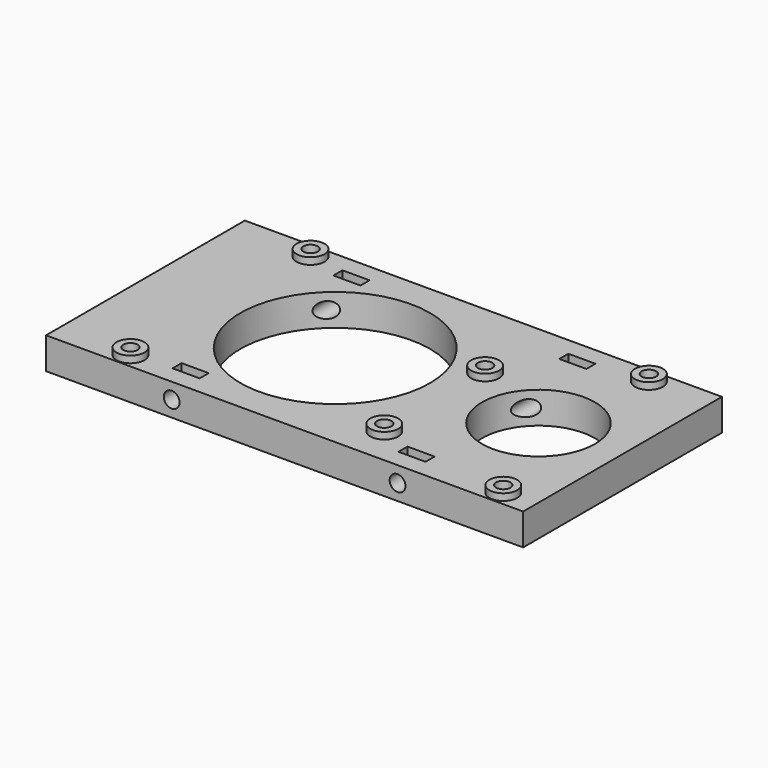
from build123d import *

# Parameters (mm, degrees)
F0_W     = 105.6
F0_H     = 55
F0_R     = 1.6
F0_R_2   = 21
F0_R_3   = 12.5
F1_DEPTH = 7
F2_R     = 3.1
F2_R_2   = 1.6
F3_DEPTH = 1.5
F4_W     = 6
F4_H     = 2.5
F5_DEPTH = 7.001
F7_DEPTH = 4
F8_R     = 1.75
F9_DEPTH = 55.001


with BuildPart() as f1:
    # F0 (on Top) → F1 (new body)
    with BuildSketch(Plane.XY):
        with Locations((50.8, 26.65)):
            Rectangle(F0_W, F0_H)
        with Locations((14, 2.5)):
            Circle(F0_R, mode=Mode.SUBTRACT)
        with Locations((66.1, 7.6)):
            Circle(F0_R, mode=Mode.SUBTRACT)
        with Locations((96.52, 2.5)):
            Circle(F0_R, mode=Mode.SUBTRACT)
        with Locations((40, 26.65)):
            Circle(F0_R_2, mode=Mode.SUBTRACT)
        with Locations((15.3, 50.7)):
            Circle(F0_R, mode=Mode.SUBTRACT)
        with Locations((66.1, 35.5)):
            Circle(F0_R, mode=Mode.SUBTRACT)
        with Locations((85, 26.65)):
            Circle(F0_R_3, mode=Mode.SUBTRACT)
        with Locations((90.2, 50.7)):
            Circle(F0_R, mode=Mode.SUBTRACT)
    extrude(amount=F1_DEPTH)

    # F2 (on face) → F3 (join)
    with BuildSketch(Plane.XY.offset(7)):
        with Locations((15.3, 50.7)):
            Circle(F2_R)
        with Locations((15.3, 50.7)):
            Circle(F2_R_2, mode=Mode.SUBTRACT)
        with Locations((90.2, 50.7)):
            Circle(F2_R)
        with Locations((90.2, 50.7)):
            Circle(F2_R_2, mode=Mode.SUBTRACT)
        with Locations((66.1, 35.5)):
            Circle(F2_R)
        with Locations((66.1, 35.5)):
            Circle(F2_R_2, mode=Mode.SUBTRACT)
        with Locations((66.1, 7.6)):
            Circle(F2_R)
        with Locations((66.1, 7.6)):
            Circle(F2_R_2, mode=Mode.SUBTRACT)
        with Locations((96.52, 2.5)):
            Circle(F2_R)
        with Locations((96.52, 2.5)):
            Circle(F2_R_2, mode=Mode.SUBTRACT)
        with Locations((14, 2.5)):
            Circle(F2_R)
        with Locations((14, 2.5)):
            Circle(F2_R_2, mode=Mode.SUBTRACT)
    extrude(amount=F3_DEPTH)

    # F4 (on face) → F5 (cut, through all)
    with BuildSketch(Plane.XY.offset(7)):
        with Locations((75.8, 48.9)):
            Rectangle(F4_W, F4_H)
        with Locations((75.8, 4.4)):
            Rectangle(F4_W, F4_H)
        with Locations((25.8, 48.9)):
            Rectangle(F4_W, F4_H)
        with Locations((25.8, 4.4)):
            Rectangle(F4_W, F4_H)
    extrude(amount=-F5_DEPTH, mode=Mode.SUBTRACT)

    # F6 (on face) → F7 (cut)
    with BuildSketch(Plane(origin=(0, 0, 0), x_dir=(1, 0, 0), z_dir=(0, 0, -1))):
        Polygon((12.267949, -5.5), (15.732051, -5.5), (17.464102, -2.5), (15.732051, 0.5), (12.267949, 0.5), (10.535898, -2.5), align=None)
        Polygon((98.252051, 0.5), (94.787949, 0.5), (93.055898, -2.5), (94.787949, -5.5), (98.252051, -5.5), (99.984102, -2.5), align=None)
        Polygon((63.1, -5.867949), (63.1, -9.332051), (66.1, -11.064102), (69.1, -9.332051), (69.1, -5.867949), (66.1, -4.135898), align=None)
        Polygon((63.1, -33.767949), (63.1, -37.232051), (66.1, -38.964102), (69.1, -37.232051), (69.1, -33.767949), (66.1, -32.035898), align=None)
        Polygon((91.932051, -47.7), (88.467949, -47.7), (86.735898, -50.7), (88.467949, -53.7), (91.932051, -53.7), (93.664102, -50.7), align=None)
        Polygon((13.567949, -47.7), (11.835898, -50.7), (13.567949, -53.7), (17.032051, -53.7), (18.764102, -50.7), (17.032051, -47.7), align=None)
    extrude(amount=-F7_DEPTH, mode=Mode.SUBTRACT)

    # F8 (on face) → F9 (cut, through all)
    with BuildSketch(Plane(origin=(0, 54.15, 0), x_dir=(-1, 0, 0), z_dir=(0, 1, 0))):
        with Locations((-75.8, 3.5)):
            Circle(F8_R)
        with Locations((-25.8, 3.5)):
            Circle(F8_R)
    extrude(amount=-F9_DEPTH, mode=Mode.SUBTRACT)


solid = f1.part
